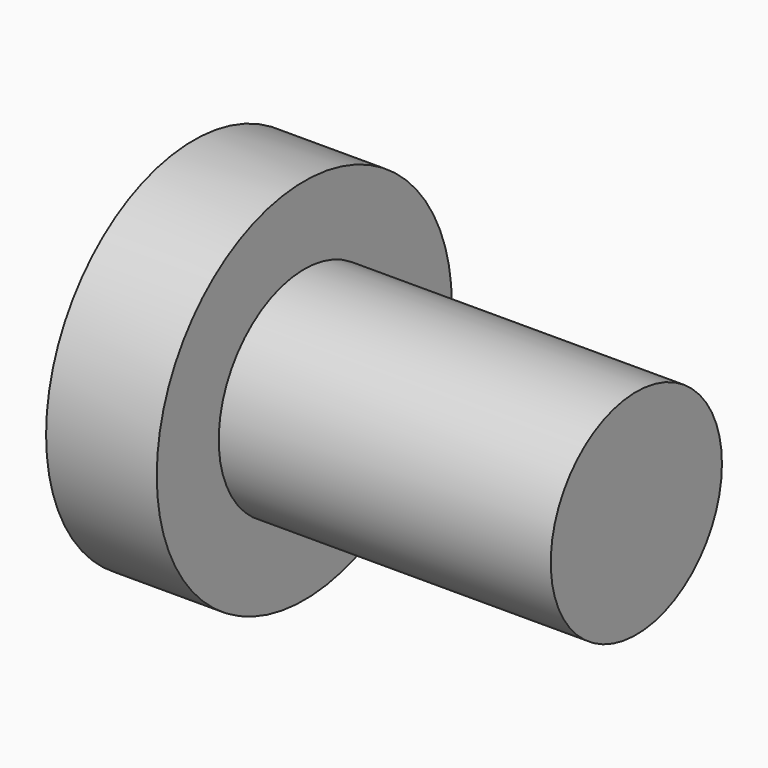
from build123d import *

# Parameters (mm, degrees)
SKETCH_R     = 2.9
PAD_DEPTH    = 9
SKETCH001_R  = 5
PAD001_DEPTH = 3


with BuildPart() as part:
    # Sketch → Pad (new body)
    with BuildSketch(Plane.YZ):
        Circle(SKETCH_R)
    extrude(amount=PAD_DEPTH)

    # Sketch001 → Pad001 (join)
    with BuildSketch(Plane.YZ):
        Circle(SKETCH001_R)
    extrude(amount=-PAD001_DEPTH)


solid = part.part
